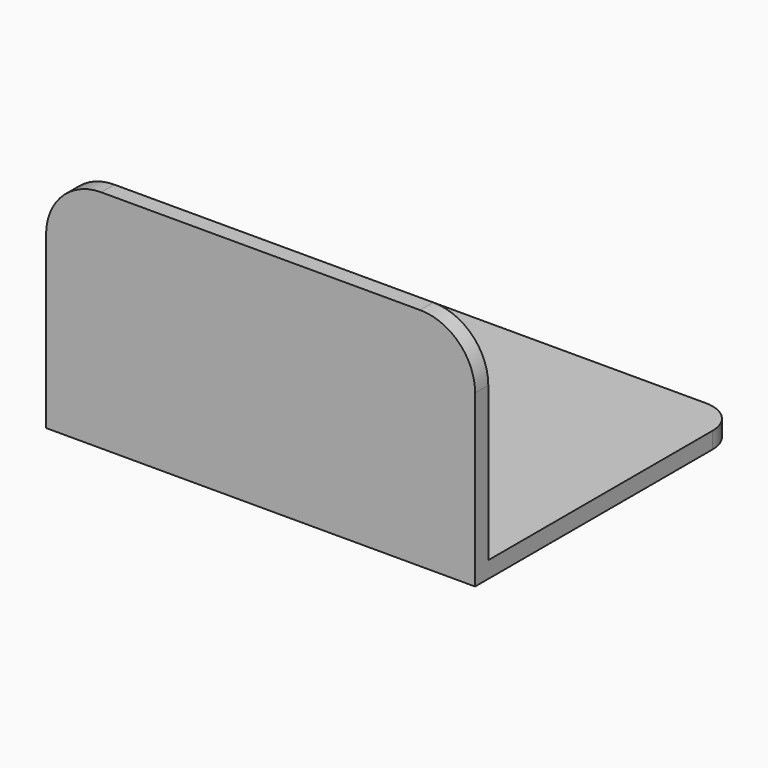
from build123d import *

# Parameters (mm, degrees)
F1_DEPTH = 15
F2_W     = 390
F2_H     = 15
F3_DEPTH = 190
F4_R     = 50


with BuildPart() as f1:
    # F0 (on Top) → F1 (new body)
    with BuildSketch(Plane.XY):
        with BuildLine():
            Line((-195, 120), (-195, -150))
            Line((-195, -150), (195, -150))
            Line((195, -150), (195, 120))
            ThreePointArc((195, 120), (186.213203, 141.213203), (165, 150))
            Line((165, 150), (-165, 150))
            ThreePointArc((-165, 150), (-186.213203, 141.213203), (-195, 120))
        make_face()
    extrude(amount=F1_DEPTH)

    # F2 (on face) → F3 (join)
    with BuildSketch(Plane.XY.offset(15)):
        with Locations((0, -142.5)):
            Rectangle(F2_W, F2_H)
    extrude(amount=F3_DEPTH)

    # F4
    f4_edges = [f1.edges().sort_by_distance(p)[0] for p in [
        (195, -142.5, 205),
        (-195, -142.5, 205),
    ]]
    fillet(f4_edges, radius=F4_R)


solid = f1.part
